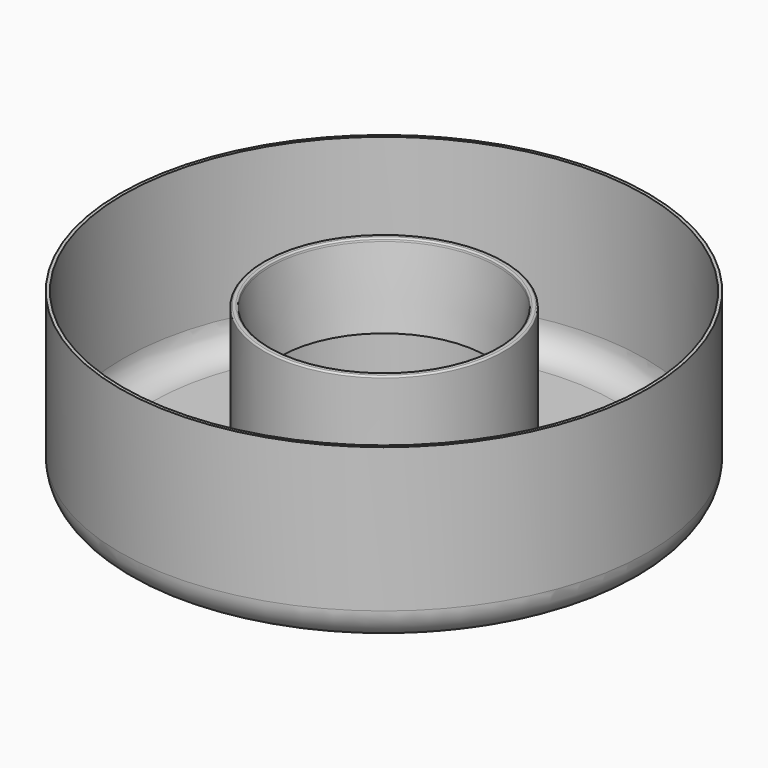
from build123d import *


with BuildPart() as f1:
    # F0 (on Front) → F1 (revolve)
    with BuildSketch(Plane.XZ):
        with BuildLine():
            Line((-32.440171, 9.240504), (-32.521368, 10.240504))
            Line((-32.521368, 10.240504), (-36.5, 10.240504))
            Line((-36.5, 10.240504), (-36.5, 59.240504))
            Line((-36.5, 59.240504), (-33.220742, 35.719246))
            Line((-33.220742, 35.719246), (-32.230321, 35.857327))
            Line((-32.230321, 35.857327), (-35.509579, 59.378585))
            Line((-35.509579, 59.378585), (-35.588887, 59.947439))
            ThreePointArc((-35.588887, 59.947439), (-35.762638, 60.261366), (-36.101928, 60.378081))
            Line((-36.101928, 60.378081), (-37.01783, 60.345398))
            ThreePointArc((-37.01783, 60.345398), (-37.359802, 60.192909), (-37.5, 59.845716))
            Line((-37.5, 59.845716), (-37.5, 59.240504))
            Line((-37.5, 59.240504), (-37.5, 10.240504))
            Line((-37.5, 10.240504), (-72.440171, 10.240504))
            ThreePointArc((-72.440171, 10.240504), (-78.804132, 12.876543), (-81.440171, 19.240504))
            Line((-81.440171, 19.240504), (-81.440171, 64.240504))
            Line((-81.440171, 64.240504), (-82.440171, 64.240504))
            Line((-82.440171, 64.240504), (-82.440171, 19.240504))
            ThreePointArc((-82.440171, 19.240504), (-79.511239, 12.169436), (-72.440171, 9.240504))
            Line((-72.440171, 9.240504), (-32.440171, 9.240504))
        make_face()
    revolve(axis=Axis((0, 0, 34.240504), (0, 0, 1)))


solid = f1.part
